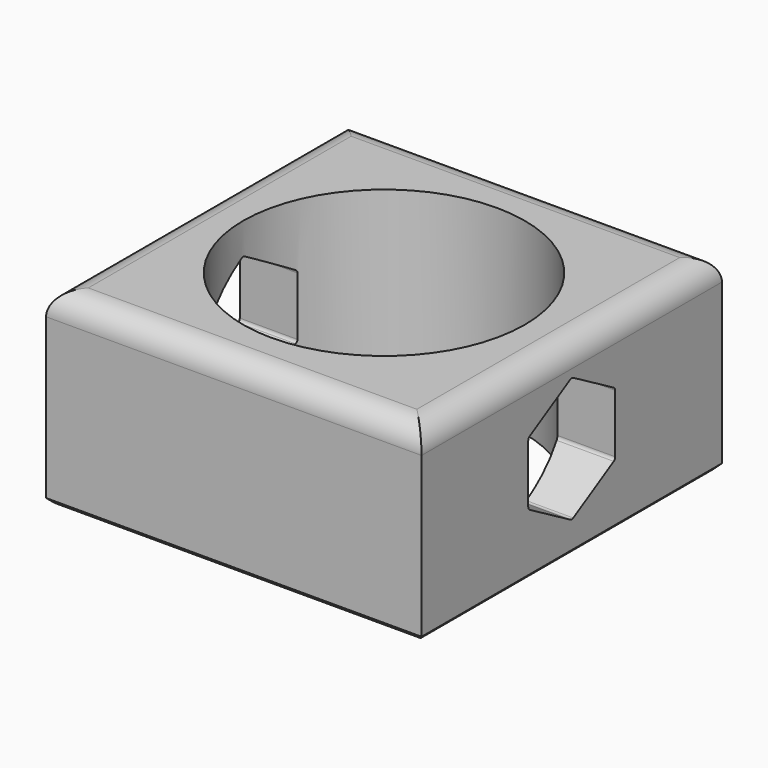
from build123d import *

# Parameters (mm, degrees)
F0_W     = 50.8
F0_H     = 50.8
F1_DEPTH = 25.4
F3_D     = 38.1
F4_R     = 3.175
F5_SIZE  = 0.635
F7_DEPTH = 50.801


with BuildPart() as f1:
    # F0 (on Top) → F1 (new body)
    with BuildSketch(Plane.XY):
        Rectangle(F0_W, F0_H)
    extrude(amount=-F1_DEPTH)

    # F3 (through all)
    with Locations(Plane.XY):
        with Locations((0, 0)):
            Hole(F3_D / 2)

    # F4
    f4_edges = [f1.edges().sort_by_distance(p)[0] for p in [
        (0, 25.4, 0),
        (25.4, 0, 0),
        (0, -25.4, 0),
        (-25.4, 0, 0),
    ]]
    fillet(f4_edges, radius=F4_R)

    # F5
    f5_edges = [f1.edges().sort_by_distance(p)[0] for p in [
        (0, 25.4, -25.4),
        (-25.4, 0, -25.4),
        (0, -25.4, -25.4),
        (25.4, 0, -25.4),
    ]]
    chamfer(f5_edges, length=F5_SIZE)

    # F6 (on face) → F7 (cut, through all)
    with BuildSketch(Plane(origin=(-25.4, 0, 0), x_dir=(0, -1, 0), z_dir=(-1, 0, 0))):
        with BuildLine():
            Line((7.355005, -16.65312), (7.355005, -8.74688))
            ThreePointArc((7.355005, -8.74688), (7.286946, -8.49288), (7.101005, -8.306939))
            Line((7.101005, -8.306939), (0.254, -4.353819))
            ThreePointArc((0.254, -4.353819), (0, -4.28576), (-0.254, -4.353819))
            Line((-0.254, -4.353819), (-7.101005, -8.306939))
            ThreePointArc((-7.101005, -8.306939), (-7.286946, -8.49288), (-7.355005, -8.74688))
            Line((-7.355005, -8.74688), (-7.355005, -16.65312))
            ThreePointArc((-7.355005, -16.65312), (-7.286946, -16.90712), (-7.101005, -17.093061))
            Line((-7.101005, -17.093061), (-0.254, -21.046181))
            ThreePointArc((-0.254, -21.046181), (0, -21.11424), (0.254, -21.046181))
            Line((0.254, -21.046181), (7.101005, -17.093061))
            ThreePointArc((7.101005, -17.093061), (7.286946, -16.90712), (7.355005, -16.65312))
        make_face()
    extrude(amount=-F7_DEPTH, mode=Mode.SUBTRACT)


solid = f1.part
